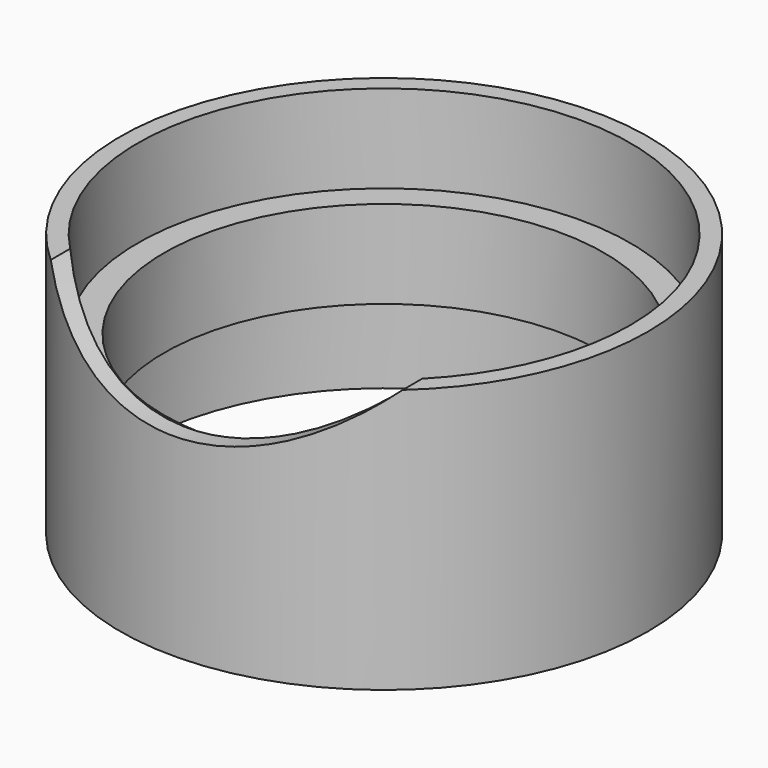
from build123d import *

# Parameters (mm, degrees)
CYLINDER099_R     = 29
CYLINDER099_DEPTH = 46
CYLINDER097_R     = 28
CYLINDER097_DEPTH = 30
CYLINDER098_R     = 30
CYLINDER098_DEPTH = 30
CYLINDER095_R     = 25
CYLINDER095_DEPTH = 10
CYLINDER096_R     = 28
CYLINDER096_DEPTH = 10


with BuildPart() as cylinder099:
    # Cylinder099 → Cylinder099 (new body)
    with BuildSketch(Plane(origin=(0, 0, 41), x_dir=(1, 0, 0), z_dir=(0, -1, 0))):
        Circle(CYLINDER099_R)
    extrude(amount=CYLINDER099_DEPTH)


with BuildPart() as cylinder097:
    # Cylinder097 → Cylinder097 (new body)
    with BuildSketch(Plane.XY.offset(-10)):
        Circle(CYLINDER097_R)
    extrude(amount=CYLINDER097_DEPTH)


with BuildPart() as cut103:
    # Cylinder098 → Cylinder098 (new body)
    with BuildSketch(Plane.XY.offset(-10)):
        Circle(CYLINDER098_R)
    extrude(amount=CYLINDER098_DEPTH)

    # Cut103: cut Cylinder097
    add(cylinder097.part, mode=Mode.SUBTRACT)


with BuildPart() as cylinder095:
    # Cylinder095 → Cylinder095 (new body)
    with BuildSketch(Plane.XY):
        Circle(CYLINDER095_R)
    extrude(amount=CYLINDER095_DEPTH)


with BuildPart() as cut104:
    # Cylinder096 → Cylinder096 (new body)
    with BuildSketch(Plane.XY):
        Circle(CYLINDER096_R)
    extrude(amount=CYLINDER096_DEPTH)

    # Cut102: cut Cylinder095
    add(cylinder095.part, mode=Mode.SUBTRACT)

    # Fusion029: union Cut103
    add(cut103.part)

    # Cut104: cut Cylinder099
    add(cylinder099.part, mode=Mode.SUBTRACT)


solid = cut104.part
